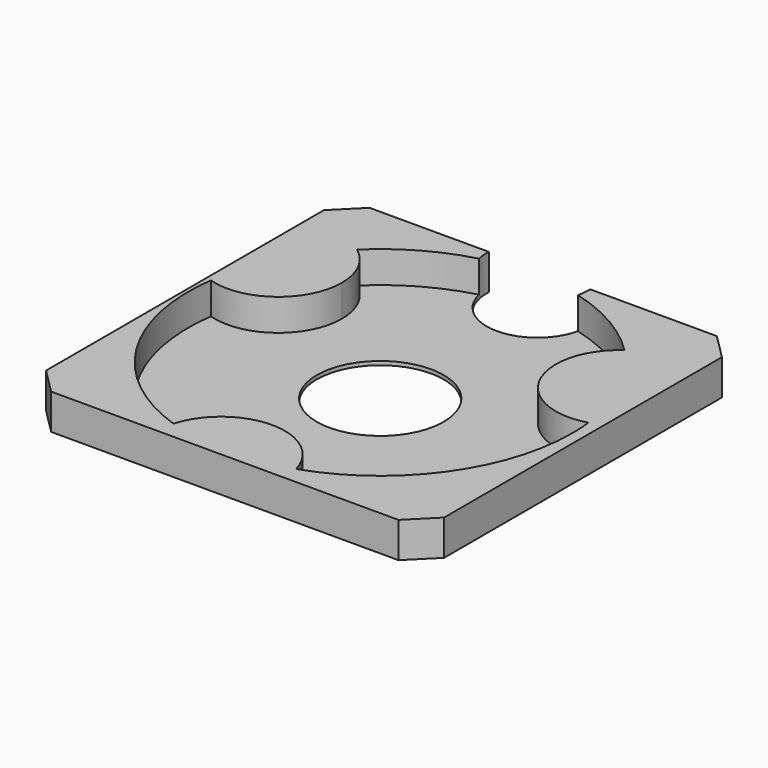
from build123d import *

# Parameters (mm, degrees)
F0_W     = 79.736687
F0_H     = 79.736683
F1_DEPTH = 7.112
F3_DEPTH = 6.35
F4_SIZE  = 5.08
F6_D     = 25.4
F8_D     = 20.32
F5_R     = 12.951628
F9_DEPTH = 4.572


with BuildPart() as f1:
    # F0 (on Top) → F1 (new body)
    with BuildSketch(Plane.XY):
        with Locations((0.753854, 7.008081)):
            Rectangle(F0_W, F0_H)
    extrude(amount=F1_DEPTH)

    # F2 (on face) → F3 (cut)
    with BuildSketch(Plane.XY.offset(7.112)):
        with BuildLine():
            ThreePointArc((12.293341, -29.39476), (31.214057, -15.396734), (38.42256, 7.008081))
            ThreePointArc((38.42256, 7.008081), (38.359097, 9.215515), (38.168919, 11.415657))
            ThreePointArc((38.168919, 11.415657), (23.100575, 18.141586), (27.227051, 34.118611))
            ThreePointArc((27.227051, 34.118611), (0.347081, 45.429074), (-26.732835, 34.606064))
            ThreePointArc((-26.732835, 34.606064), (-22.915627, 30.093116), (-21.544947, 24.343419))
            ThreePointArc((-21.544947, 24.343419), (-26.733198, 14.080507), (-38.073768, 12.173477))
            ThreePointArc((-38.073768, 12.173477), (-32.65258, -13.242897), (-12.293341, -29.39476))
            ThreePointArc((-12.293341, -29.39476), (0, -20.087793), (12.293341, -29.39476))
        make_face()
    extrude(amount=-F3_DEPTH, mode=Mode.SUBTRACT)

    # F4
    f4_edges = [f1.edges().sort_by_distance(p)[0] for p in [
        (40.622197, 46.876423, 3.556),
        (-39.11449, 46.876423, 3.556),
        (40.622197, -32.86026, 3.556),
        (-39.11449, -32.86026, 3.556),
    ]]
    chamfer(f4_edges, length=F4_SIZE)

    # F6 (through all)
    with Locations(Plane.XY.offset(7.112)):
        with Locations((0, 7.008081)):
            Hole(F6_D / 2)

    # F8 (through all)
    with Locations(Plane.XY.offset(7.112)):
        with Locations((0, 46.382606)):
            Hole(F8_D / 2)

    # F5 (on face) + F0 (on Top) → F9 (cut)
    with BuildSketch(Plane.XY.offset(7.112)):
        with BuildLine():
            ThreePointArc((-12.293341, -29.39476), (0, -20.087793), (12.293341, -29.39476))
            ThreePointArc((12.293341, -29.39476), (31.214057, -15.396734), (38.42256, 7.008081))
            ThreePointArc((38.42256, 7.008081), (38.359097, 9.215515), (38.168919, 11.415657))
            ThreePointArc((38.168919, 11.415657), (23.100575, 18.141586), (27.227051, 34.118611))
            ThreePointArc((27.227051, 34.118611), (0.347081, 45.429074), (-26.732835, 34.606064))
            ThreePointArc((-26.732835, 34.606064), (-22.915627, 30.093116), (-21.544947, 24.343419))
            ThreePointArc((-21.544947, 24.343419), (-26.733198, 14.080507), (-38.073768, 12.173477))
            ThreePointArc((-38.073768, 12.173477), (-32.65258, -13.242897), (-12.293341, -29.39476))
        make_face()
        with Locations((0, 7.62)):
            Circle(F5_R, mode=Mode.SUBTRACT)
    with BuildSketch(Plane.XY):
        with Locations((0.753854, 7.008081)):
            Rectangle(F0_W, F0_H)
    extrude(amount=-F9_DEPTH, mode=Mode.SUBTRACT)


solid = f1.part
